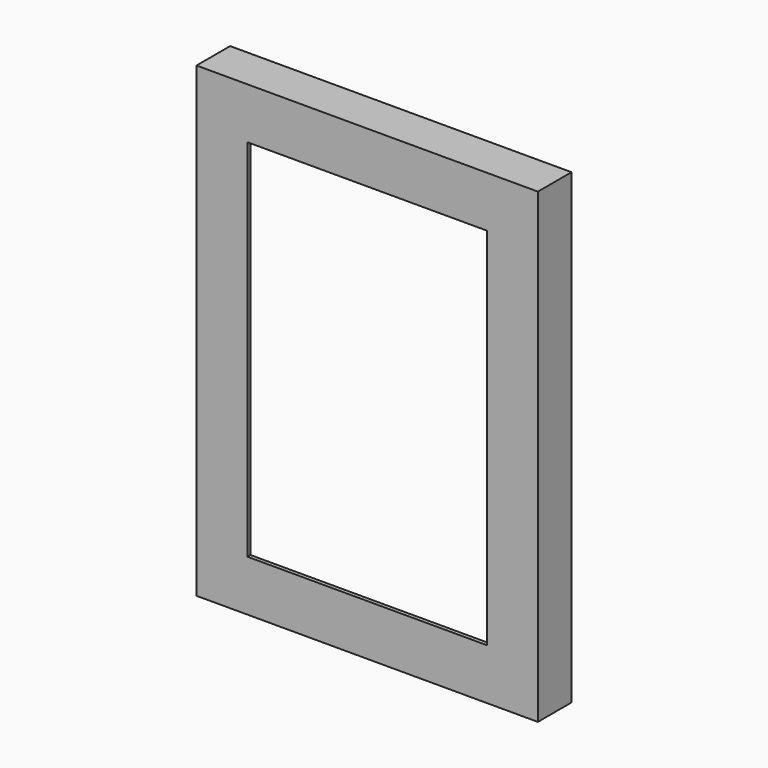
from build123d import *

# Parameters (mm, degrees)
F0_W     = 268
F0_H     = 366.5
F0_W_2   = 188
F0_H_2   = 286.5
F1_DEPTH = 3
F2_W     = 268
F2_H     = 366.5
F2_W_2   = 262
F2_H_2   = 360.5
F3_DEPTH = 30


with BuildPart() as f1:
    # F0 (on Front) → F1 (new body)
    with BuildSketch(Plane.XZ):
        Rectangle(F0_W, F0_H)
        Rectangle(F0_W_2, F0_H_2, mode=Mode.SUBTRACT)
    extrude(amount=-F1_DEPTH)

    # F2 (on face) → F3 (join)
    with BuildSketch(Plane(origin=(0, 3, 0), x_dir=(-1, 0, 0), z_dir=(0, 1, 0))):
        Rectangle(F2_W, F2_H)
        Rectangle(F2_W_2, F2_H_2, mode=Mode.SUBTRACT)
    extrude(amount=F3_DEPTH)


solid = f1.part
